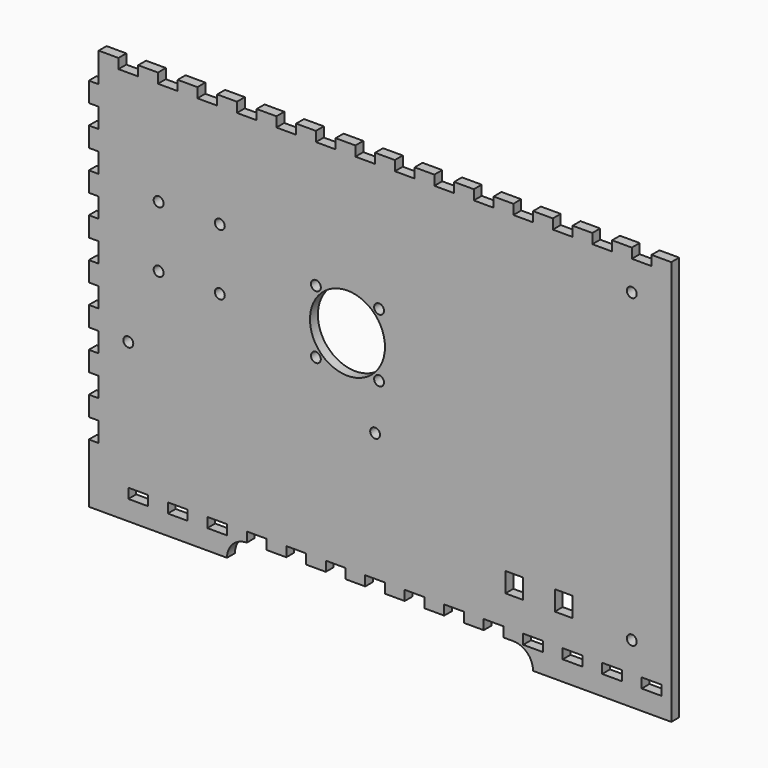
from build123d import *

# Parameters (mm, degrees)
PAD_DEPTH       = 2.5
SKETCH001_W     = 5
SKETCH001_H     = 10
POCKET_DEPTH    = 5.001
SKETCH002_W     = 10
SKETCH002_H     = 5
PAD001_DEPTH    = 5
SKETCH003_W     = 10
SKETCH003_H     = 5
POCKET001_DEPTH = 5.001
SKETCH004_R     = 2.5
POCKET002_DEPTH = 5.001
SKETCH005_R     = 19
SKETCH005_R_2   = 2.5
POCKET003_DEPTH = 5.001
SKETCH006_W     = 9
SKETCH006_H     = 10
POCKET004_DEPTH = 5.001
SKETCH007_R     = 2.5
POCKET005_DEPTH = 5.001


with BuildPart() as part:
    # Sketch → Pad (new body, symmetric)
    with BuildSketch(Plane.XZ):
        with BuildLine():
            Line((-147.5, -100), (-77.5, -100))
            ThreePointArc((-67.5, -90), (-74.571068, -92.928932), (-77.5, -100))
            Line((-67.5, -90), (67.5, -90))
            ThreePointArc((77.5, -100), (74.571068, -92.928932), (67.5, -90))
            Line((77.5, -100), (147.5, -100))
            Line((147.5, -100), (147.5, 100))
            Line((147.5, 100), (-147.5, 100))
            Line((-147.5, 100), (-147.5, -100))
        make_face()
    extrude(amount=PAD_DEPTH, both=True)

    # Sketch001 (on Face10 of Pad) → Pocket (cut, through all)
    with BuildSketch(Plane.XZ.offset(2.5)):
        with Locations((-145, -65)):
            Rectangle(SKETCH001_W, SKETCH001_H)
        with Locations((-145, -45)):
            Rectangle(SKETCH001_W, SKETCH001_H)
        with Locations((-145, -25)):
            Rectangle(SKETCH001_W, SKETCH001_H)
        with Locations((-145, -5)):
            Rectangle(SKETCH001_W, SKETCH001_H)
        with Locations((-145, 15)):
            Rectangle(SKETCH001_W, SKETCH001_H)
        with Locations((-145, 35)):
            Rectangle(SKETCH001_W, SKETCH001_H)
        with Locations((-145, 55)):
            Rectangle(SKETCH001_W, SKETCH001_H)
        with Locations((-145, 75)):
            Rectangle(SKETCH001_W, SKETCH001_H)
        with Locations((-145, 95)):
            Rectangle(SKETCH001_W, SKETCH001_H)
        with Locations((-145, 115)):
            Rectangle(SKETCH001_W, SKETCH001_H)
    extrude(amount=-POCKET_DEPTH, mode=Mode.SUBTRACT)

    # Sketch002 (on Face4 of Pocket) → Pad001 (join)
    with BuildSketch(Plane(origin=(0, 2.5, 0), x_dir=(1, 0, 0), z_dir=(0, 1, 0))):
        with Locations((142.5, -102.5)):
            Rectangle(SKETCH002_W, SKETCH002_H)
        with Locations((122.5, -102.5)):
            Rectangle(SKETCH002_W, SKETCH002_H)
        with Locations((102.5, -102.5)):
            Rectangle(SKETCH002_W, SKETCH002_H)
        with Locations((82.5, -102.5)):
            Rectangle(SKETCH002_W, SKETCH002_H)
        with Locations((62.5, -102.5)):
            Rectangle(SKETCH002_W, SKETCH002_H)
        with Locations((42.5, -102.5)):
            Rectangle(SKETCH002_W, SKETCH002_H)
        with Locations((22.5, -102.5)):
            Rectangle(SKETCH002_W, SKETCH002_H)
        with Locations((2.5, -102.5)):
            Rectangle(SKETCH002_W, SKETCH002_H)
        with Locations((-17.5, -102.5)):
            Rectangle(SKETCH002_W, SKETCH002_H)
        with Locations((-37.5, -102.5)):
            Rectangle(SKETCH002_W, SKETCH002_H)
        with Locations((-57.5, -102.5)):
            Rectangle(SKETCH002_W, SKETCH002_H)
        with Locations((-77.5, -102.5)):
            Rectangle(SKETCH002_W, SKETCH002_H)
        with Locations((-97.5, -102.5)):
            Rectangle(SKETCH002_W, SKETCH002_H)
        with Locations((-117.5, -102.5)):
            Rectangle(SKETCH002_W, SKETCH002_H)
        with Locations((-137.5, -102.5)):
            Rectangle(SKETCH002_W, SKETCH002_H)
    extrude(amount=-PAD001_DEPTH)

    # Sketch003 (on Face98 of Pad001) → Pocket001 (cut, through all)
    with BuildSketch(Plane(origin=(0, 2.5, 0), x_dir=(1, 0, 0), z_dir=(0, 1, 0))):
        with Locations((-122.5, 87.5)):
            Rectangle(SKETCH003_W, SKETCH003_H)
        with Locations((-102.5, 87.5)):
            Rectangle(SKETCH003_W, SKETCH003_H)
        with Locations((-82.5, 87.5)):
            Rectangle(SKETCH003_W, SKETCH003_H)
        with Locations((-62.5, 87.5)):
            Rectangle(SKETCH003_W, SKETCH003_H)
        with Locations((-42.5, 87.5)):
            Rectangle(SKETCH003_W, SKETCH003_H)
        with Locations((-22.5, 87.5)):
            Rectangle(SKETCH003_W, SKETCH003_H)
        with Locations((-2.5, 87.5)):
            Rectangle(SKETCH003_W, SKETCH003_H)
        with Locations((17.5, 87.5)):
            Rectangle(SKETCH003_W, SKETCH003_H)
        with Locations((37.5, 87.5)):
            Rectangle(SKETCH003_W, SKETCH003_H)
        with Locations((57.5, 87.5)):
            Rectangle(SKETCH003_W, SKETCH003_H)
        with Locations((77.5, 87.5)):
            Rectangle(SKETCH003_W, SKETCH003_H)
        with Locations((97.5, 87.5)):
            Rectangle(SKETCH003_W, SKETCH003_H)
        with Locations((117.5, 87.5)):
            Rectangle(SKETCH003_W, SKETCH003_H)
        with Locations((137.5, 87.5)):
            Rectangle(SKETCH003_W, SKETCH003_H)
    extrude(amount=-POCKET001_DEPTH, mode=Mode.SUBTRACT)

    # Sketch004 (on Face4 of Pocket001) → Pocket002 (cut, through all)
    with BuildSketch(Plane(origin=(0, 2.5, 0), x_dir=(1, 0, 0), z_dir=(0, 1, 0))):
        with Locations((-127.5, 20)):
            Circle(SKETCH004_R)
        with Locations((-2.5, 20)):
            Circle(SKETCH004_R)
        with Locations((127.5, 70)):
            Circle(SKETCH004_R)
        with Locations((127.5, -85)):
            Circle(SKETCH004_R)
    extrude(amount=-POCKET002_DEPTH, mode=Mode.SUBTRACT)

    # Sketch005 (on Face4 of Pocket002) → Pocket003 (cut, through all)
    with BuildSketch(Plane(origin=(0, 2.5, 0), x_dir=(1, 0, 0), z_dir=(0, 1, 0))):
        with Locations((-16.5, -20)):
            Circle(SKETCH005_R)
        with Locations((-32.5, -4)):
            Circle(SKETCH005_R_2)
        with Locations((-0.5, -4)):
            Circle(SKETCH005_R_2)
        with Locations((-32.5, -36)):
            Circle(SKETCH005_R_2)
        with Locations((-0.5, -36)):
            Circle(SKETCH005_R_2)
    extrude(amount=-POCKET003_DEPTH, mode=Mode.SUBTRACT)

    # Sketch006 (on Face4 of Pocket003) → Pocket004 (cut, through all)
    with BuildSketch(Plane(origin=(0, 2.5, 0), x_dir=(1, 0, 0), z_dir=(0, 1, 0))):
        with Locations((68, 65)):
            Rectangle(SKETCH006_W, SKETCH006_H)
        with Locations((93, 65)):
            Rectangle(SKETCH006_W, SKETCH006_H)
    extrude(amount=-POCKET004_DEPTH, mode=Mode.SUBTRACT)

    # Sketch007 (on Face4 of Pocket004) → Pocket005 (cut, through all)
    with BuildSketch(Plane(origin=(0, 2.5, 0), x_dir=(1, 0, 0), z_dir=(0, 1, 0))):
        with Locations((-112.15, -16.5)):
            Circle(SKETCH007_R)
        with Locations((-81.15, -16.5)):
            Circle(SKETCH007_R)
        with Locations((-112.15, -47.5)):
            Circle(SKETCH007_R)
        with Locations((-81.15, -47.5)):
            Circle(SKETCH007_R)
    extrude(amount=-POCKET005_DEPTH, mode=Mode.SUBTRACT)


solid = part.part
